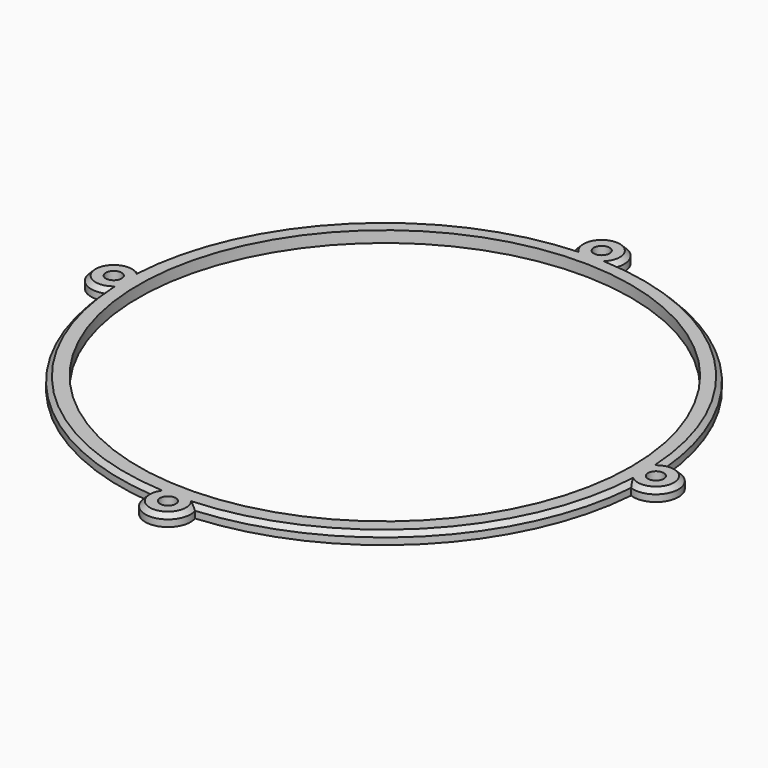
from build123d import *

# Parameters (mm, degrees)
SKETCH_R     = 54.5
SKETCH_R_2   = 1.75
PAD_DEPTH    = 2.5
CHAMFER_SIZE = 1


with BuildPart() as part:
    # Sketch → Pad (new body)
    with BuildSketch(Plane.XY):
        with BuildLine():
            ThreePointArc((4.584354, 58.00408), (-0.000818, 65), (-4.583701, 58.00258))
            ThreePointArc((-4.583701, 58.00258), (-41.189101, 41.181927), (-58.202656, 4.665785))
            ThreePointArc((-58.202656, 4.665785), (-64.999962, 0.019578), (-58.239249, -4.679717))
            ThreePointArc((-58.239249, -4.679717), (-41.41212, -41.428831), (-4.756492, -58.458643))
            ThreePointArc((-4.756492, -58.458643), (-0.000824, -65), (4.757, -58.460212))
            ThreePointArc((4.757, -58.460212), (41.4225, -41.438205), (58.258407, -4.686881))
            ThreePointArc((58.258407, -4.686881), (64.999962, 0.019584), (58.221745, 4.673094))
            ThreePointArc((58.221745, 4.673094), (41.19943, 41.191251), (4.584354, 58.00408))
        make_face()
        Circle(SKETCH_R, mode=Mode.SUBTRACT)
        with Locations((0, 60)):
            Circle(SKETCH_R_2, mode=Mode.SUBTRACT)
        with Locations((0, -60)):
            Circle(SKETCH_R_2, mode=Mode.SUBTRACT)
        with Locations((-60, 0)):
            Circle(SKETCH_R_2, mode=Mode.SUBTRACT)
        with Locations((60, 0)):
            Circle(SKETCH_R_2, mode=Mode.SUBTRACT)
    extrude(amount=PAD_DEPTH)

    # Chamfer
    chamfer_edges = [part.edges().sort_by_distance(p)[0] for p in [
        (41.4225, -41.438205, 2.5),
        (-0.000824, -65, 2.5),
        (-41.41212, -41.428831, 2.5),
        (-64.999962, 0.019578, 2.5),
        (-41.189101, 41.181927, 2.5),
        (64.999962, 0.019584, 2.5),
        (41.19943, 41.191251, 2.5),
        (-0.000818, 65, 2.5),
    ]]
    chamfer(chamfer_edges, length=CHAMFER_SIZE)


solid = part.part
